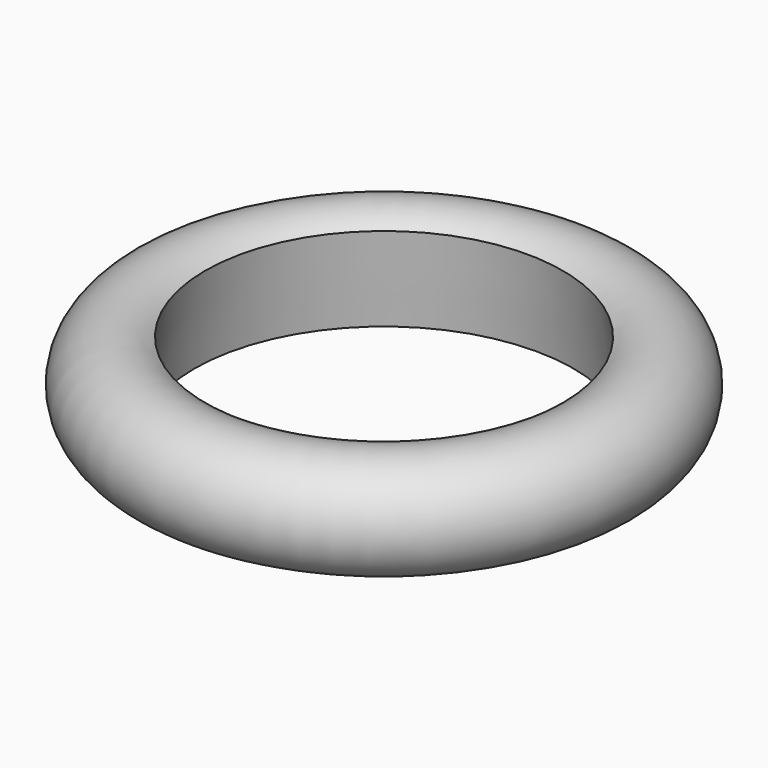
from build123d import *


with BuildPart() as f2:
    # F2: sweep along a path in F0
    with BuildLine(Plane.XY) as f2_path:
        CenterArc((-113.791972, 0), 49.853955, 0, 360)
    # F1 (on Front) → F2 (sweep)
    with BuildSketch(Plane.XZ):
        with BuildLine():
            Line((-71.695797, 21.104643), (-69.162376, 0))
            ThreePointArc((-69.162376, 0), (-51.717311, 12.7985), (-71.695797, 21.104643))
        make_face()
    sweep(path=f2_path.line)


solid = f2.part
